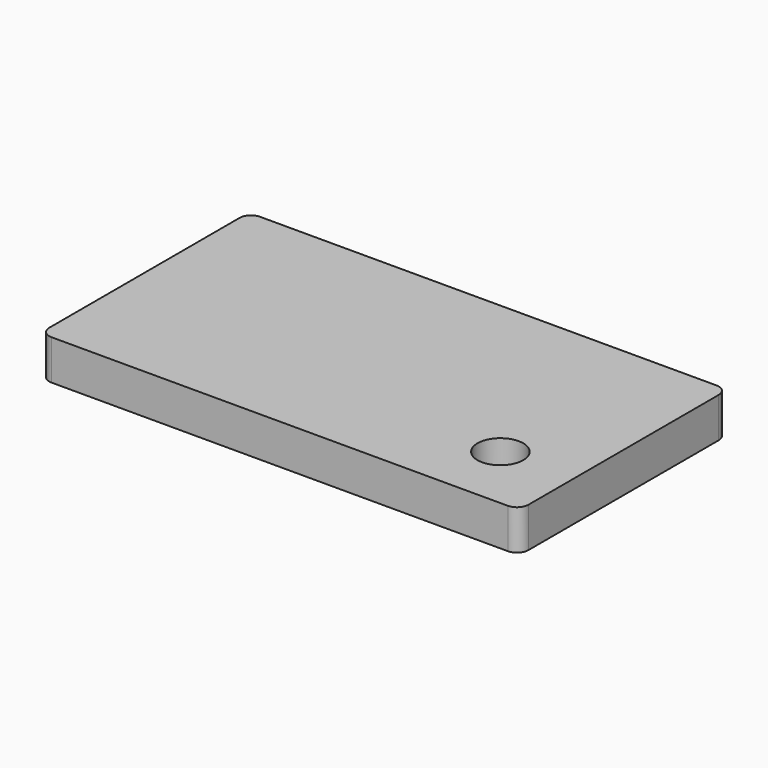
from build123d import *

# Parameters (mm, degrees)
SKETCH_W     = 35.98
SKETCH_H     = 19.58
SKETCH_R     = 1.72
PAD_DEPTH    = 2
SKETCH001_W  = 35.98
SKETCH001_H  = 19.58
PAD001_DEPTH = 1
FILLET_R     = 0.86


with BuildPart() as part:
    # Sketch → Pad (new body)
    with BuildSketch(Plane.XY):
        with Locations((17.99, 9.79)):
            Rectangle(SKETCH_W, SKETCH_H)
        with Locations((30.49, 5.09)):
            Circle(SKETCH_R, mode=Mode.SUBTRACT)
    extrude(amount=PAD_DEPTH)

    # Sketch001 (on Face6 of Pad) → Pad001 (join)
    with BuildSketch(Plane(origin=(0, 0, 0), x_dir=(1, 0, 0), z_dir=(0, 0, -1))):
        with Locations((17.99, -9.79)):
            Rectangle(SKETCH001_W, SKETCH001_H)
    extrude(amount=PAD001_DEPTH)

    # Fillet
    fillet_edges = [part.edges().sort_by_distance(p)[0] for p in [
        (0, 0, 0.5),
        (0, 19.58, 0.5),
        (35.98, 19.58, 0.5),
        (35.98, 0, 0.5),
    ]]
    fillet(fillet_edges, radius=FILLET_R)


solid = part.part
